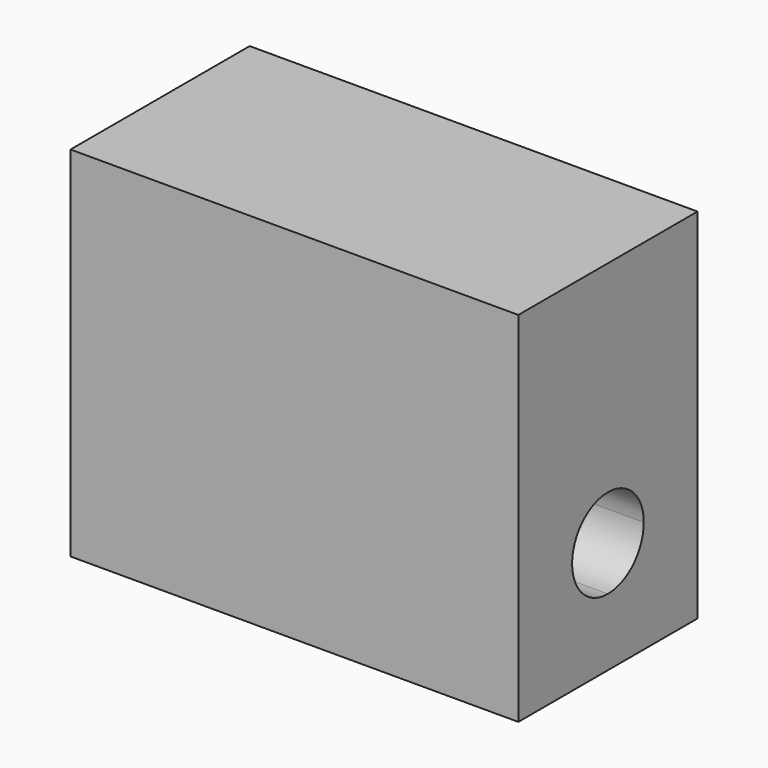
from build123d import *

# Parameters (mm, degrees)
F1_DEPTH = 25.4


with BuildPart() as f1:
    # F0 (on Right) → F1 (new body)
    with BuildSketch(Plane.YZ):
        with BuildLine():
            Line((0, -13.97), (0, 0))
            Line((0, 0), (-6.35, 0))
            Line((-6.35, 0), (-6.35, -11.43))
            ThreePointArc((-6.35, -11.43), (-4.553949, -12.173949), (-3.81, -13.97))
            Line((-3.81, -13.97), (0, -13.97))
        make_face()
        with BuildLine():
            Line((-6.35, -11.43), (-6.35, 0))
            Line((-6.35, 0), (-12.7, 0))
            Line((-12.7, 0), (-12.7, -13.97))
            Line((-12.7, -13.97), (-8.89, -13.97))
            ThreePointArc((-8.89, -13.97), (-8.146051, -12.173949), (-6.35, -11.43))
        make_face()
        with BuildLine():
            Line((-8.89, -13.97), (-12.7, -13.97))
            Line((-12.7, -13.97), (-12.7, -20.32))
            Line((-12.7, -20.32), (-6.35, -20.32))
            Line((-6.35, -20.32), (-6.35, -16.51))
            ThreePointArc((-6.35, -16.51), (-8.146051, -15.766051), (-8.89, -13.97))
        make_face()
        with BuildLine():
            Line((0, -20.32), (0, -13.97))
            Line((0, -13.97), (-3.81, -13.97))
            ThreePointArc((-3.81, -13.97), (-4.553949, -15.766051), (-6.35, -16.51))
            Line((-6.35, -16.51), (-6.35, -20.32))
            Line((-6.35, -20.32), (0, -20.32))
        make_face()
    extrude(amount=F1_DEPTH)


solid = f1.part
